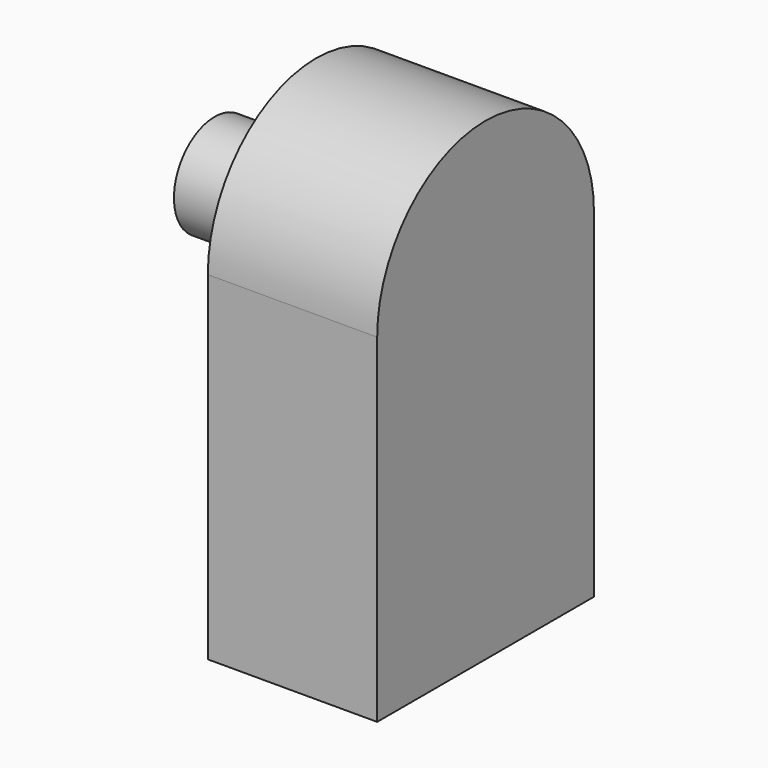
from build123d import *

# Parameters (mm, degrees)
F0_R     = 1.5
F1_DEPTH = 3
F3_DEPTH = 5


with BuildPart() as f1:
    # F0 (on Right) → F1 (new body)
    with BuildSketch(Plane.YZ):
        Circle(F0_R)
    extrude(amount=F1_DEPTH)

    # F2 (on face) → F3 (join)
    with BuildSketch(Plane.YZ.offset(3)):
        with BuildLine():
            Line((4, -10), (4, 0))
            ThreePointArc((4, 0), (0, 4), (-4, 0))
            Line((-4, 0), (-4, -10))
            Line((-4, -10), (4, -10))
        make_face()
    extrude(amount=F3_DEPTH)


solid = f1.part
